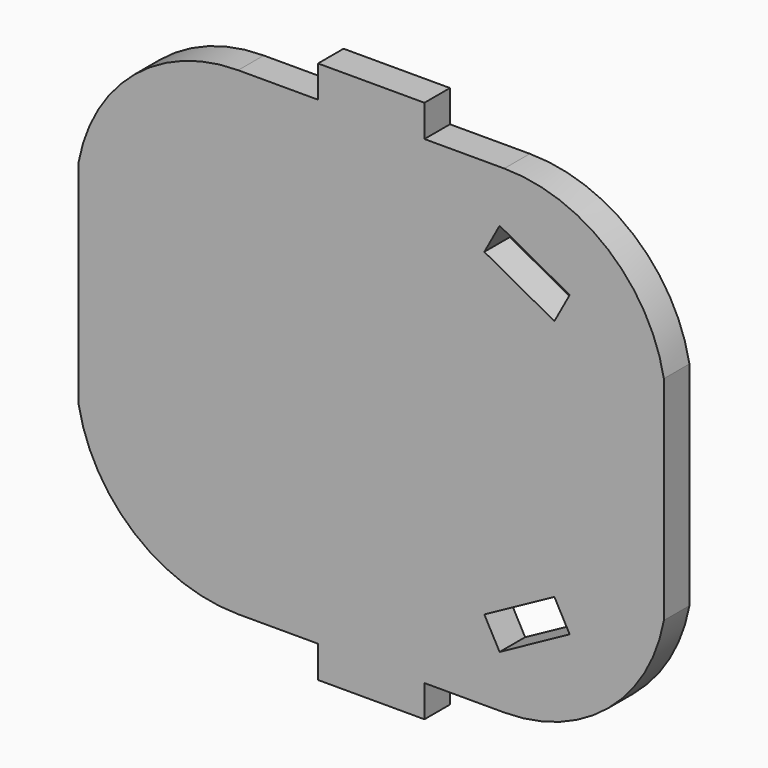
from build123d import *

# Parameters (mm, degrees)
F1_DEPTH = 6


with BuildPart() as f1:
    # F0 (on Front) → F1 (new body)
    with BuildSketch(Plane.XZ):
        with BuildLine():
            Line((-10, -51), (10, -51))
            Line((10, -51), (10, -45))
            Line((10, -45), (25, -45))
            ThreePointArc((25, -45), (44.525624, -37.930749), (55, -20))
            Line((55, -20), (55, 0))
            Line((55, 0), (55, 20))
            ThreePointArc((55, 20), (44.525624, 37.930749), (25, 45))
            Line((25, 45), (10, 45))
            Line((10, 45), (10, 51))
            Line((10, 51), (-10, 51))
            Line((-10, 51), (-10, 45))
            Line((-10, 45), (-25, 45))
            ThreePointArc((-25, 45), (-44.525624, 37.930749), (-55, 20))
            Line((-55, 20), (-55, 0))
            Line((-55, 0), (-55, -20))
            ThreePointArc((-55, -20), (-44.525624, -37.930749), (-25, -45))
            Line((-25, -45), (-10, -45))
            Line((-10, -45), (-10, -51))
        make_face()
        Polygon((24.124385, -35.258507), (21.251272, -29.991134), (34.419706, -22.808352), (37.292819, -28.075725), align=None, mode=Mode.SUBTRACT)
        Polygon((34.419706, 22.808352), (21.251272, 29.991134), (24.124385, 35.258507), (37.292819, 28.075725), align=None, mode=Mode.SUBTRACT)
    extrude(amount=F1_DEPTH)


solid = f1.part
